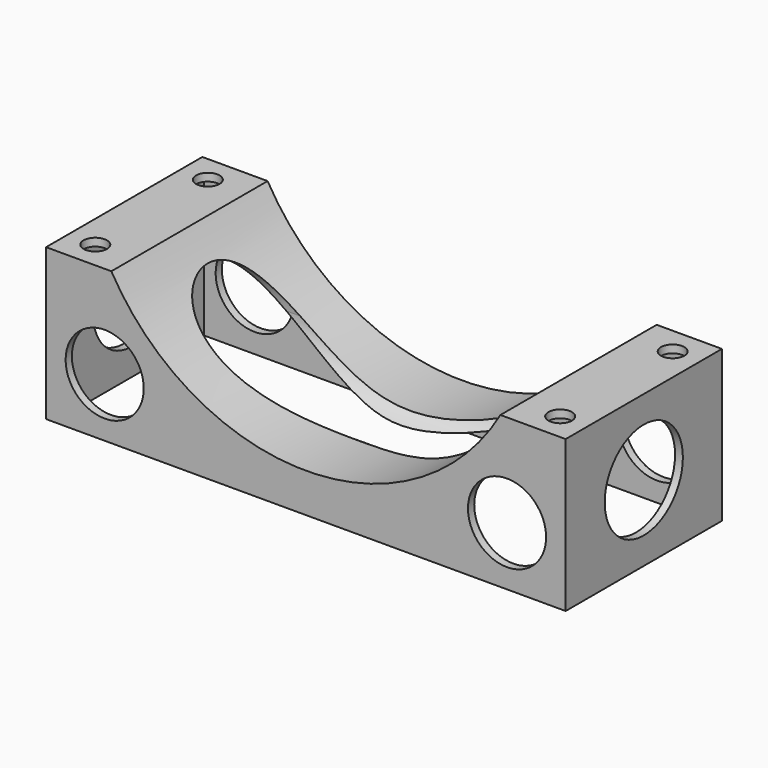
from build123d import *

# Parameters (mm, degrees)
F1_DEPTH      = 25
F1_DEPTH_BACK = 25
F2_T          = -2
F3_R          = 3
F4_DEPTH      = 73
F6_R          = 12.5
F7_DEPTH      = 142.6
F8_R          = 10
F9_DEPTH      = 5
F9_DEPTH_BACK = 60


with BuildPart() as f1:
    # F0 (on Front) → F1 (new body, two sides)
    with BuildSketch(Plane.XZ) as f1_sk:
        with BuildLine():
            ThreePointArc((49.796461, -28.75), (0, -57.5), (-49.796461, -28.75))
            Line((-49.796461, -28.75), (-61.038751, -28.75))
            Line((-61.038751, -28.75), (-66.495191, -28.75))
            Line((-66.495191, -28.75), (-66.495191, -67.5))
            Line((-66.495191, -67.5), (-49.796461, -67.5))
            Line((-49.796461, -67.5), (-43.30127, -67.5))
            Line((-43.30127, -67.5), (0, -67.5))
            Line((0, -67.5), (43.30127, -67.5))
            Line((43.30127, -67.5), (66.495191, -67.5))
            Line((66.495191, -67.5), (66.495191, -28.75))
            Line((66.495191, -28.75), (49.796461, -28.75))
        make_face()
    extrude(amount=F1_DEPTH)
    extrude(f1_sk.sketch, amount=-F1_DEPTH_BACK)

    # F2
    f2_openings = [f1.faces().sort_by_distance(p)[0] for p in [
        (0, 0, -67.5),
    ]]
    offset(amount=F2_T, openings=f2_openings)

    # F3 (on face) → F4 (cut)
    with BuildSketch(Plane(origin=(0, 0, -67.5), x_dir=(1, 0, 0), z_dir=(0, 0, -1))):
        with Locations((59.495191, 18)):
            Circle(F3_R)
        with Locations((-59.495191, 18)):
            Circle(F3_R)
        with Locations((59.495191, -18)):
            Circle(F3_R)
        with Locations((-59.495191, -18)):
            Circle(F3_R)
    extrude(amount=-F4_DEPTH, mode=Mode.SUBTRACT)

    # F6 (on face) → F7 (cut)
    with BuildSketch(Plane.YZ.offset(66.495191)):
        with Locations((0, -48.125)):
            Circle(F6_R)
    extrude(amount=-F7_DEPTH, mode=Mode.SUBTRACT)

    # F8 (on face) → F9 (cut, two sides)
    with BuildSketch(Plane(origin=(0, 25, 0), x_dir=(-1, 0, 0), z_dir=(0, 1, 0))) as f9_sk:
        with Locations((-51.495191, -52.5)):
            Circle(F8_R)
        with Locations((51.495191, -52.5)):
            Circle(F8_R)
    extrude(amount=F9_DEPTH, mode=Mode.SUBTRACT)
    extrude(f9_sk.sketch, amount=-F9_DEPTH_BACK, mode=Mode.SUBTRACT)


solid = f1.part
